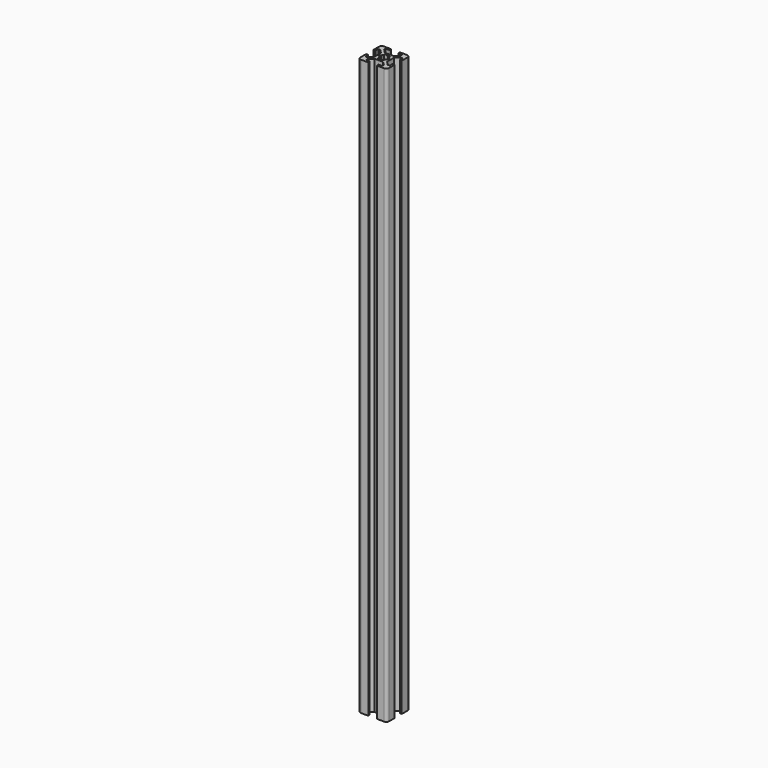
from build123d import *

# Parameters (mm, degrees)
F0_W     = 20
F0_H     = 20
F1_DEPTH = 400
F2_R     = 2
F4_DEPTH = 400
F6_DEPTH = 400
F7_W     = 0.25
F7_H     = 0.25
F8_DEPTH = 400
F9_R     = 0.25


with BuildPart() as f1:
    # F0 (on Top) → F1 (new body)
    with BuildSketch(Plane.XY):
        Rectangle(F0_W, F0_H)
    extrude(amount=F1_DEPTH)

    # F2
    f2_edges = [f1.edges().sort_by_distance(p)[0] for p in [
        (10, 10, 200),
        (-10, 10, 200),
        (-10, -10, 200),
        (10, -10, 200),
    ]]
    fillet(f2_edges, radius=F2_R)

    # F3 (on face) → F4 (cut, through all)
    with BuildSketch(Plane(origin=(0, 0, 0), x_dir=(1, 0, 0), z_dir=(0, 0, -1))):
        Polygon((3, 10), (-3, 10), (-3, 8.5), (-5.627585, 8.5), (-5.627585, 7.127585), (-3, 4.5), (0, 4.5), (3, 4.5), (5.627585, 7.127585), (5.627585, 8.5), (3, 8.5), align=None)
        Polygon((10, -3), (10, 3), (8.5, 3), (8.5, 5.627585), (7.127585, 5.627585), (4.5, 3), (4.5, 0), (4.5, -3), (7.127585, -5.627585), (8.5, -5.627585), (8.5, -3), align=None)
        Polygon((-3, -8.5), (-3, -10), (3, -10), (3, -8.5), (5.627585, -8.5), (5.627585, -7.127585), (3, -4.5), (0, -4.5), (-3, -4.5), (-5.627585, -7.127585), (-5.627585, -8.5), align=None)
        Polygon((-8.5, 3), (-10, 3), (-10, -3), (-8.5, -3), (-8.5, -5.627585), (-7.127585, -5.627585), (-4.5, -3), (-4.5, 0), (-4.5, 3), (-7.127585, 5.627585), (-8.5, 5.627585), align=None)
    extrude(amount=-F4_DEPTH, mode=Mode.SUBTRACT)

    # F5 (on face) → F6 (cut, through all)
    with BuildSketch(Plane.XY.offset(400)):
        with BuildLine():
            Line((-3.3, -0.5), (-2.681715, -0.60902))
            ThreePointArc((-2.681715, -0.60902), (-2.38157, -1.375), (-1.868285, -2.017923))
            Line((-1.868285, -2.017923), (-2.083013, -2.607884))
            Line((-2.083013, -2.607884), (-1.65, -2.857884))
            Line((-1.65, -2.857884), (-1.216987, -3.107884))
            Line((-1.216987, -3.107884), (-0.81343, -2.626943))
            ThreePointArc((-0.81343, -2.626943), (0, -2.75), (0.81343, -2.626943))
            Line((0.81343, -2.626943), (1.216987, -3.107884))
            Line((1.216987, -3.107884), (1.65, -2.857884))
            Line((1.65, -2.857884), (2.083013, -2.607884))
            Line((2.083013, -2.607884), (1.868285, -2.017923))
            ThreePointArc((1.868285, -2.017923), (2.38157, -1.375), (2.681715, -0.60902))
            Line((2.681715, -0.60902), (3.3, -0.5))
            Line((3.3, -0.5), (3.3, 0))
            Line((3.3, 0), (3.3, 0.5))
            Line((3.3, 0.5), (2.681715, 0.60902))
            ThreePointArc((2.681715, 0.60902), (2.38157, 1.375), (1.868285, 2.017923))
            Line((1.868285, 2.017923), (2.083013, 2.607884))
            Line((2.083013, 2.607884), (1.65, 2.857884))
            Line((1.65, 2.857884), (1.216987, 3.107884))
            Line((1.216987, 3.107884), (0.81343, 2.626943))
            ThreePointArc((0.81343, 2.626943), (0, 2.75), (-0.81343, 2.626943))
            Line((-0.81343, 2.626943), (-1.216987, 3.107884))
            Line((-1.216987, 3.107884), (-1.65, 2.857884))
            Line((-1.65, 2.857884), (-2.083013, 2.607884))
            Line((-2.083013, 2.607884), (-1.868285, 2.017923))
            ThreePointArc((-1.868285, 2.017923), (-2.38157, 1.375), (-2.681715, 0.60902))
            Line((-2.681715, 0.60902), (-3.3, 0.5))
            Line((-3.3, 0.5), (-3.3, 0))
            Line((-3.3, 0), (-3.3, -0.5))
        make_face()
    extrude(amount=-F6_DEPTH, mode=Mode.SUBTRACT)

    # F7 (on face) → F8 (cut, through all)
    with BuildSketch(Plane(origin=(0, 0, 0), x_dir=(1, 0, 0), z_dir=(0, 0, -1))):
        with Locations((-9.875, 3.125)):
            Rectangle(F7_W, F7_H)
        with Locations((-3.125, 9.875)):
            Rectangle(F7_W, F7_H)
        with Locations((3.125, 9.875)):
            Rectangle(F7_W, F7_H)
        with Locations((9.875, 3.125)):
            Rectangle(F7_W, F7_H)
        with Locations((-9.875, -3.125)):
            Rectangle(F7_W, F7_H)
        with Locations((9.875, -3.125)):
            Rectangle(F7_W, F7_H)
        with Locations((-3.125, -9.875)):
            Rectangle(F7_W, F7_H)
        with Locations((3.125, -9.875)):
            Rectangle(F7_W, F7_H)
    extrude(amount=-F8_DEPTH, mode=Mode.SUBTRACT)

    # F9
    f9_edges = [f1.edges().sort_by_distance(p)[0] for p in [
        (-8.5, 3, 200),
        (-8.5, -3, 200),
        (-3, -8.5, 200),
        (3, -8.5, 200),
        (8.5, -3, 200),
        (-3, 8.5, 200),
        (3, 8.5, 200),
        (8.5, 3, 200),
    ]]
    fillet(f9_edges, radius=F9_R)


solid = f1.part
